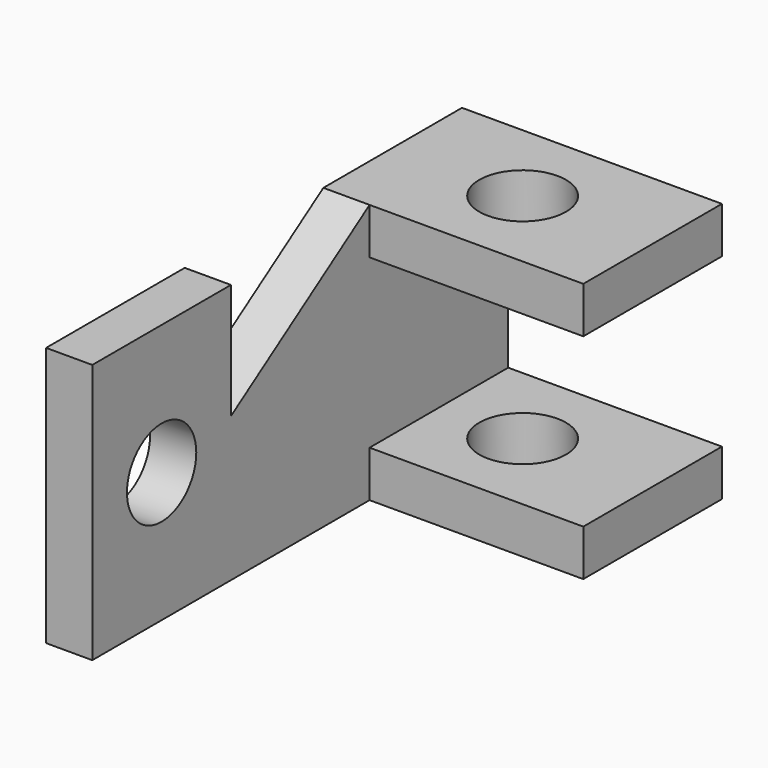
from build123d import *

# Parameters (mm, degrees)
F1_DEPTH = 8
F2_W     = 30
F2_H     = 8
F3_DEPTH = 37
F4_R     = 7.5
F5_DEPTH = 45
F6_R     = 7.5
F7_DEPTH = 25


with BuildPart() as f1:
    # F0 (on Right) → F1 (new body)
    with BuildSketch(Plane.YZ):
        Polygon((45, -22.5), (45, 22.5), (15, 22.5), (-15, 2.5), (-15, 22.5), (-45, 22.5), (-45, -22.5), align=None)
    extrude(amount=F1_DEPTH)

    # F2 (on face) → F3 (join)
    with BuildSketch(Plane.YZ.offset(8)):
        with Locations((30, 18.5)):
            Rectangle(F2_W, F2_H)
        with Locations((30, -18.5)):
            Rectangle(F2_W, F2_H)
    extrude(amount=F3_DEPTH)

    # F4 (on face) → F5 (cut)
    with BuildSketch(Plane.XY.offset(22.5)):
        with Locations((22.5, 30)):
            Circle(F4_R)
    extrude(amount=-F5_DEPTH, mode=Mode.SUBTRACT)

    # F6 (on face) → F7 (cut)
    with BuildSketch(Plane.YZ.offset(8)):
        with Locations((-30, 0)):
            Circle(F6_R)
    extrude(amount=-F7_DEPTH, mode=Mode.SUBTRACT)


solid = f1.part
